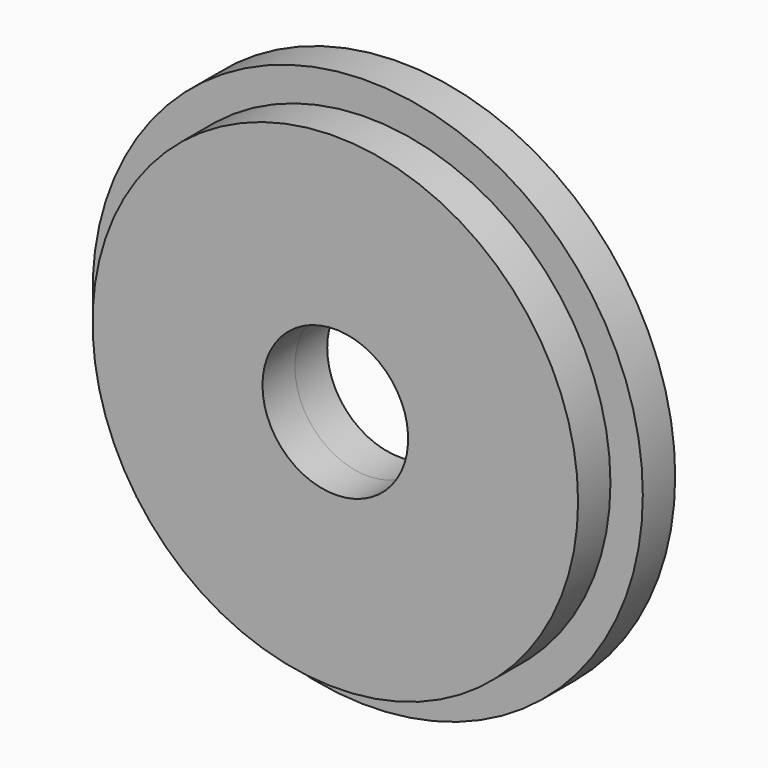
from build123d import *

# Parameters (mm, degrees)
F0_R     = 34
F1_DEPTH = 5
F3_R     = 30
F4_DEPTH = 5
F5_R     = 9
F6_DEPTH = 56.2
F7_R     = 9
F8_DEPTH = 25


with BuildPart() as f1:
    # F0 (on Front) → F1 (new body)
    with BuildSketch(Plane.XZ):
        Circle(F0_R)
    extrude(amount=F1_DEPTH)

    # F7 (on face) → F8 (cut)
    with BuildSketch(Plane(origin=(0, 0, 0), x_dir=(-1, 0, 0), z_dir=(0, 1, 0))):
        Circle(F7_R)
    extrude(amount=-F8_DEPTH, mode=Mode.SUBTRACT)


with BuildPart() as f4:
    # F3 (on offset) → F4 (new body)
    with BuildSketch(Plane.XZ.offset(5)):
        Circle(F3_R)
    extrude(amount=F4_DEPTH)

    # F5 (on face) → F6 (cut)
    with BuildSketch(Plane(origin=(0, -5, 0), x_dir=(-1, 0, 0), z_dir=(0, 1, 0))):
        Circle(F5_R)
    extrude(amount=-F6_DEPTH, mode=Mode.SUBTRACT)


solid = Compound([f1.part, f4.part])
